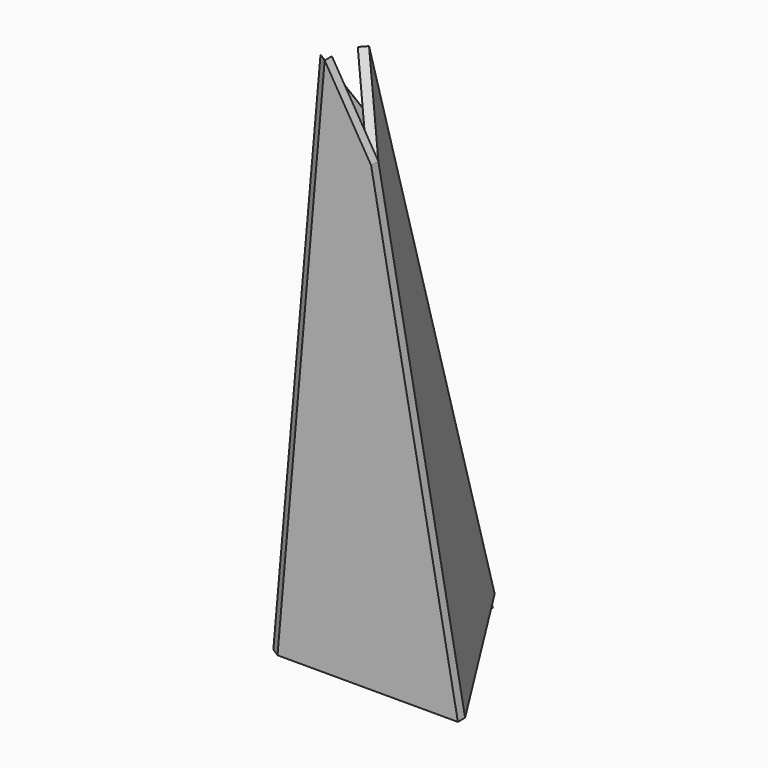
from build123d import *

# Parameters (mm, degrees)
F1_DEPTH = 5
F2_ANGLE = 60
F3_ANGLE = 60


with BuildPart() as f1:
    # F0 (on Front) → F1 (new body)
    with BuildSketch(Plane.XZ):
        Polygon((-86.1912714848, 262.2584157218), (-112.3379943091, -36.5999937057), (-12.3379943091, -36.5999937057), (-60.4393677393, 219.4000506867), align=None)
    extrude(amount=F1_DEPTH)


with BuildPart() as f2_1:
    # F2: copy of F1
    add(f1.part.rotate(Axis((-36.3886810242, 0, 91.4000284905), (0.1846644528, 0, -0.9828016279)), F2_ANGLE))


with BuildPart() as f3_1:
    # F3: copy of F1
    add(f1.part.rotate(Axis((-99.264632897, -5, 112.829211008), (0.0871557427, 0, 0.9961946981)), F3_ANGLE))


solid = Compound([f1.part, f2_1.part, f3_1.part])
